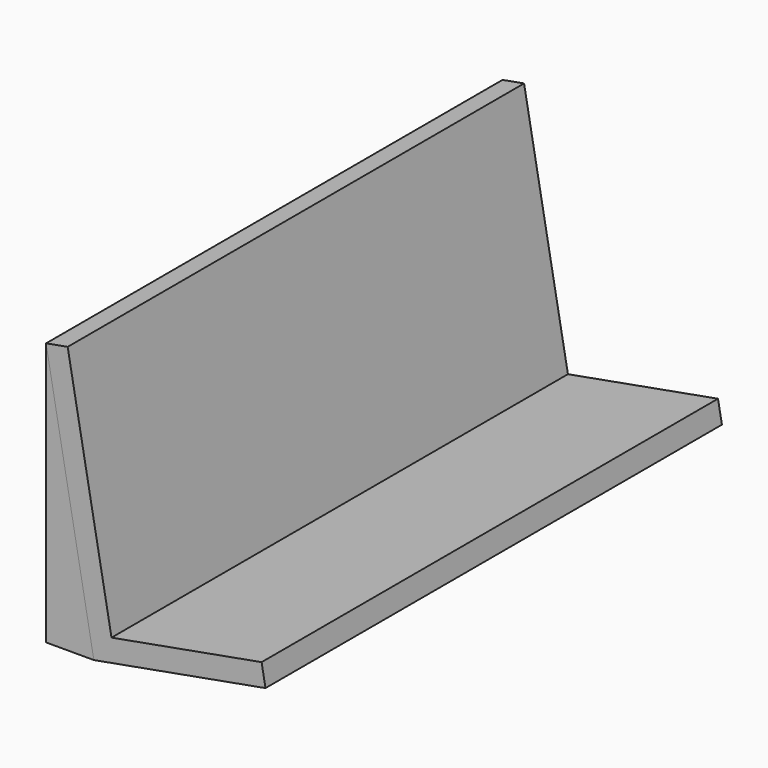
from build123d import *

# Parameters (mm, degrees)
F1_DEPTH = 1320.8
F2_DEPTH = 1320.8


with BuildPart() as f1:
    # F0 (on Front) → F1 (new body)
    with BuildSketch(Plane.XZ):
        Polygon((-5.291569, 313.864849), (-55.276252, 304.8), (55.276252, -304.8), (452.723748, -232.72189), (443.658899, -182.737207), (96.196086, -245.750468), align=None)
    extrude(amount=F1_DEPTH)


with BuildPart() as f2:
    # F0 (on Front) → F2 (new body)
    with BuildSketch(Plane.XZ):
        Polygon((55.276252, -304.8), (-55.276252, 304.8), (-55.276252, -304.8), align=None)
    extrude(amount=F2_DEPTH)


solid = Compound([f1.part, f2.part])
